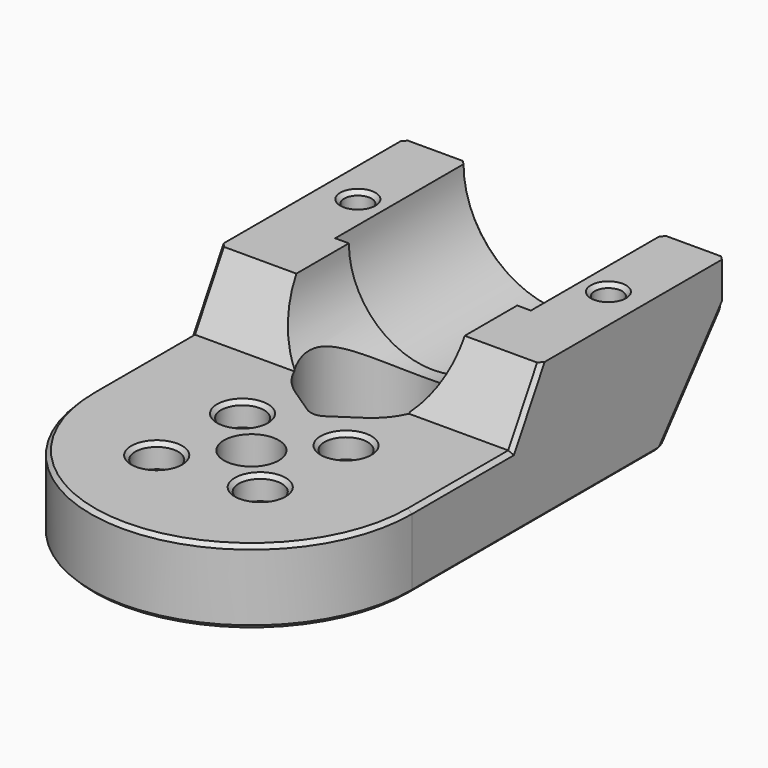
from build123d import *

# Parameters (mm, degrees)
EXTRUDE077_DEPTH           = 23
EXTRUDE077_PLACEMENT_ANGLE = 45
EXTRUDE076_DEPTH           = 23
EXTRUDE076_PLACEMENT_ANGLE = 45
EXTRUDE049_DEPTH           = 5
SKETCH050_R                = 10.75
EXTRUDE048_DEPTH           = 27
SKETCH052_R                = 2.75
EXTRUDE050_DEPTH           = 3
SKETCH046_R                = 3.5
SKETCH046_R_2              = 1.75
SKETCH046_R_3              = 1.65
EXTRUDE044_DEPTH           = 30
SKETCH047_R                = 12.5
EXTRUDE047_DEPTH           = 50
EXTRUDE045_DEPTH           = 60
SKETCH049_W                = 50
SKETCH049_H                = 17.5
EXTRUDE046_DEPTH           = 78
CHAMFER_SIZE               = 0.5
CHAMFER_PLACEMENT_ANGLE    = 180


with BuildPart() as extrude077:
    # Sketch077 → Extrude077 (new body)
    with BuildSketch(Plane.YZ):
        Polygon((-8.660254, 15), (0, 15), (0, 0), align=None)
    extrude(amount=-EXTRUDE077_DEPTH)


with BuildPart() as extrude077_1:
    # Extrude077 placement: moved
    add(extrude077.part.moved(Location((-13, 0, 0))).rotate(Axis((-13, 0, 0), (0, 0, 1)), EXTRUDE077_PLACEMENT_ANGLE))


with BuildPart() as fusion032:
    # Sketch077 → Extrude076 (new body)
    with BuildSketch(Plane.YZ):
        Polygon((-8.660254, 15), (0, 15), (0, 0), align=None)
    extrude(amount=EXTRUDE076_DEPTH)


with BuildPart() as fusion032_1:
    # Extrude076 placement: moved
    add(fusion032.part.moved(Location((13, 0, 0))).rotate(Axis((13, 0, 0), (0, 0, -1)), EXTRUDE076_PLACEMENT_ANGLE))

    # Fusion032: union Extrude077
    add(extrude077_1.part)


with BuildPart() as fusion032_2:
    # Fusion032 placement: moved
    add(fusion032_1.part.moved(Location((0, 59, 3))))


with BuildPart() as extrude049:
    # Sketch051 → Extrude049 (new body)
    with BuildSketch(Plane(origin=(0, 40, 0), x_dir=(1, 0, 0), z_dir=(0, 0, 1))):
        Polygon((-16, 0.25), (-13.185417, -1.375), (-13.185417, -4.625), (-16, -6.25), (-18.814583, -4.625), (-18.814583, -1.375), align=None)
        Polygon((16, 0.25), (18.814583, -1.375), (18.814583, -4.625), (16, -6.25), (13.185417, -4.625), (13.185417, -1.375), align=None)
    extrude(amount=EXTRUDE049_DEPTH)


with BuildPart() as extrude049_1:
    # Extrude049 placement: moved
    add(extrude049.part.moved(Location((0, 0, 13))))


with BuildPart() as extrude048:
    # Sketch050 → Extrude048 (new body)
    with BuildSketch(Plane.XZ.offset(-33)):
        Circle(SKETCH050_R)
    extrude(amount=-EXTRUDE048_DEPTH)


with BuildPart() as extrude048_1:
    # Extrude048 placement: moved
    add(extrude048.part.moved(Location((0, -17, 0))))


with BuildPart() as extrude050:
    # Sketch052 → Extrude050 (new body)
    with BuildSketch(Plane.XY):
        with Locations((-6.717514, 6.717514)):
            Circle(SKETCH052_R)
        with Locations((5.656854, 5.656854)):
            Circle(SKETCH052_R)
        with Locations((6.717514, -6.717514)):
            Circle(SKETCH052_R)
        with Locations((-5.656854, -5.656854)):
            Circle(SKETCH052_R)
    extrude(amount=EXTRUDE050_DEPTH)


with BuildPart() as extrude050_1:
    # Extrude050 placement: moved
    add(extrude050.part.moved(Location((0, 0, 8))))


with BuildPart() as extrude044:
    # Sketch046 → Extrude044 (new body)
    with BuildSketch(Plane.XY):
        Circle(SKETCH046_R)
        with Locations((-16, 37)):
            Circle(SKETCH046_R_2)
        with Locations((16, 37)):
            Circle(SKETCH046_R_2)
        with Locations((6.717514, -6.717514)):
            Circle(SKETCH046_R_3)
        with Locations((-6.717514, 6.717514)):
            Circle(SKETCH046_R_3)
        with Locations((-5.656854, -5.656854)):
            Circle(SKETCH046_R_3)
        with Locations((5.656854, 5.656854)):
            Circle(SKETCH046_R_3)
        with BuildLine():
            ThreePointArc((4.437602, 12.5547), (0, 27.211103), (-4.437602, 12.5547))
            Line((-4.437602, 12.5547), (-1.1094, 10.335899))
            ThreePointArc((-1.1094, 10.335899), (0, 10), (1.1094, 10.335899))
            Line((4.437602, 12.5547), (1.1094, 10.335899))
        make_face()
        with BuildLine():
            Line((-20.5, 0), (-20.5, 70))
            Line((-20.5, 70), (-29.5, 70))
            Line((-29.5, 70), (-29.5, -30))
            Line((-29.5, -30), (29.5, -30))
            Line((29.5, -30), (29.5, 70))
            Line((29.5, 70), (20.5, 70))
            Line((20.5, 70), (20.5, 0))
            ThreePointArc((-20.5, 0), (0, -20.5), (20.5, 0))
        make_face()
    extrude(amount=EXTRUDE044_DEPTH)


with BuildPart() as extrude047:
    # Sketch047 → Extrude047 (new body)
    with BuildSketch(Plane.XZ.offset(-32)):
        Circle(SKETCH047_R)
    extrude(amount=-EXTRUDE047_DEPTH)


with BuildPart() as extrude047_1:
    # Extrude047 placement: moved
    add(extrude047.part.moved(Location((0, -3, 0))))


with BuildPart() as extrude045:
    # Sketch048 → Extrude045 (new body)
    with BuildSketch(Plane.YZ.offset(33)):
        Polygon((-30, 8), (16, 8), (20.618802, 0), (-30, 0), align=None)
    extrude(amount=-EXTRUDE045_DEPTH)


with BuildPart() as chamfer_body:
    # Sketch049 → Extrude046 (new body)
    with BuildSketch(Plane.XZ.offset(28)):
        with Locations((0, 8.75)):
            Rectangle(SKETCH049_W, SKETCH049_H)
    extrude(amount=-EXTRUDE046_DEPTH)

    # Cut029: cut Extrude045
    add(extrude045.part, mode=Mode.SUBTRACT)

    # Cut001: cut Extrude047
    add(extrude047_1.part, mode=Mode.SUBTRACT)

    # Cut030: cut Extrude044
    add(extrude044.part, mode=Mode.SUBTRACT)

    # Cut031: cut Extrude050
    add(extrude050_1.part, mode=Mode.SUBTRACT)

    # Cut004: cut Extrude048
    add(extrude048_1.part, mode=Mode.SUBTRACT)

    # Cut005: cut Extrude049
    add(extrude049_1.part, mode=Mode.SUBTRACT)

    # Cut043: cut Fusion032
    add(fusion032_2.part, mode=Mode.SUBTRACT)

    # Chamfer
    chamfer_edges = [chamfer_body.edges().sort_by_distance(p)[0] for p in [
        (0, -20.5, 17.5),
        (20.5, 19.8304, 17.5),
        (15.3304, 44.8304, 17.5),
        (0, 50, 17.5),
        (-15.3304, 44.8304, 17.5),
        (-20.5, 19.8304, 17.5),
        (-14.592709, 39.4375, 17.5),
        (-17.407291, 39.4375, 17.5),
        (-13.185417, 37, 17.5),
        (-18.814583, 37, 17.5),
        (-14.592709, 34.5625, 17.5),
        (-17.407291, 34.5625, 17.5),
        (-7.306854, -5.656854, 17.5),
        (-8.367514, 6.717514, 17.5),
        (0, 27.211103, 17.5),
        (-2.773501, 11.4453, 17.5),
        (2.773501, 11.4453, 17.5),
        (0, 10, 17.5),
        (-3.5, 0, 17.5),
        (14.592709, 39.4375, 17.5),
        (13.185417, 37, 17.5),
        (17.407291, 39.4375, 17.5),
        (14.592709, 34.5625, 17.5),
        (18.814583, 37, 17.5),
        (17.407291, 34.5625, 17.5),
        (4.006854, 5.656854, 17.5),
        (5.067514, -6.717514, 17.5),
        (0, -20.5, 8),
        (20.5, 18.309401, 4),
        (20.5, 8, 8),
        (20.5, 44.8304, 11.168559),
        (20.5, 50, 2.418559),
        (15.3304, 50, 11.168559),
        (0, 50, 12.5),
        (-20.5, 50, 2.418559),
        (-15.3304, 50, 11.168559),
        (-20.5, 44.8304, 11.168559),
        (-20.5, 8, 8),
        (-20.5, 18.309401, 4),
        (13.185417, 38.625, 15.25),
        (3.967514, -6.717514, 8),
        (-8.406854, -5.656854, 8),
        (2.906854, 5.656854, 8),
        (-9.467514, 6.717514, 8),
        (14.25, 37, 0),
        (-17.75, 37, 0),
    ]]
    chamfer(chamfer_edges, length=CHAMFER_SIZE)


with BuildPart() as chamfer_body_1:
    # Chamfer placement: moved
    add(chamfer_body.part.rotate(Axis((0, 0, 0), (0, 1, 0)), CHAMFER_PLACEMENT_ANGLE))


solid = chamfer_body_1.part
